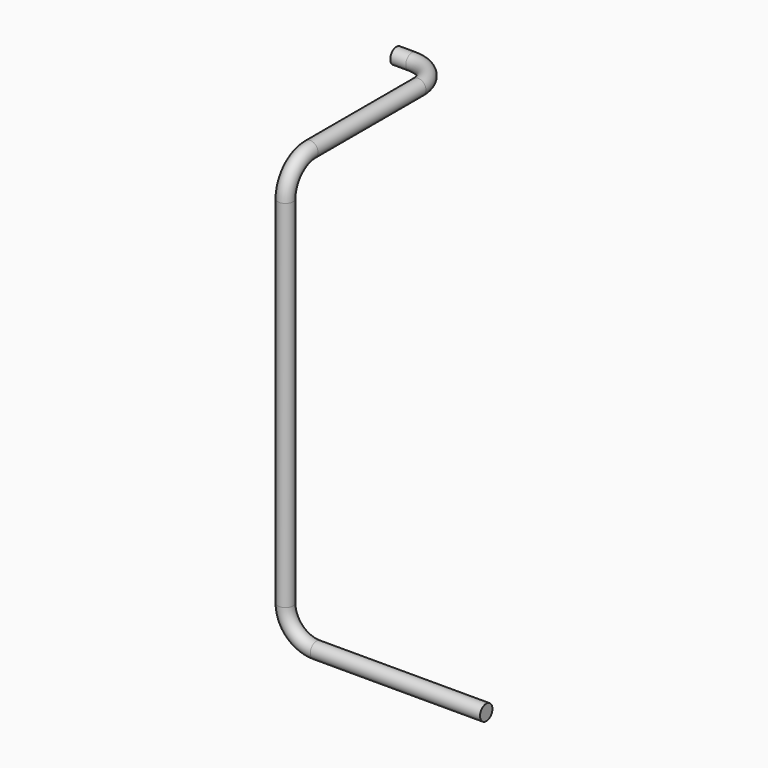
from build123d import *

# Parameters (mm, degrees)
F1_R = 5


with BuildPart() as f6:
    # F6: sweep along a path in F0, F5, F3
    with BuildLine(Plane.XY) as f6_path:
        Line((0, 0), (10, 0))
        ThreePointArc((10, 0), (24.1421356237, -5.8578643763), (30, -20))
        Line((30, -20), (30, -106.973))
    with BuildLine(Plane.YZ.offset(30)) as f6_path_2:
        ThreePointArc((-106.973, 0), (-121.1151356237, -5.8578643763), (-126.973, -20))
    with BuildLine(Plane.XZ.offset(126.973)) as f6_path_3:
        Line((30, -20), (30, -249.5))
        ThreePointArc((30, -249.5), (35.8578643763, -263.6421356237), (50, -269.5))
        Line((50, -269.5), (159.5, -269.5))
    # F1 (on Right) → F6 (sweep)
    with BuildSketch(Plane.YZ):
        Circle(F1_R)
    sweep(path=f6_path.line + f6_path_2.line + f6_path_3.line)


solid = f6.part
